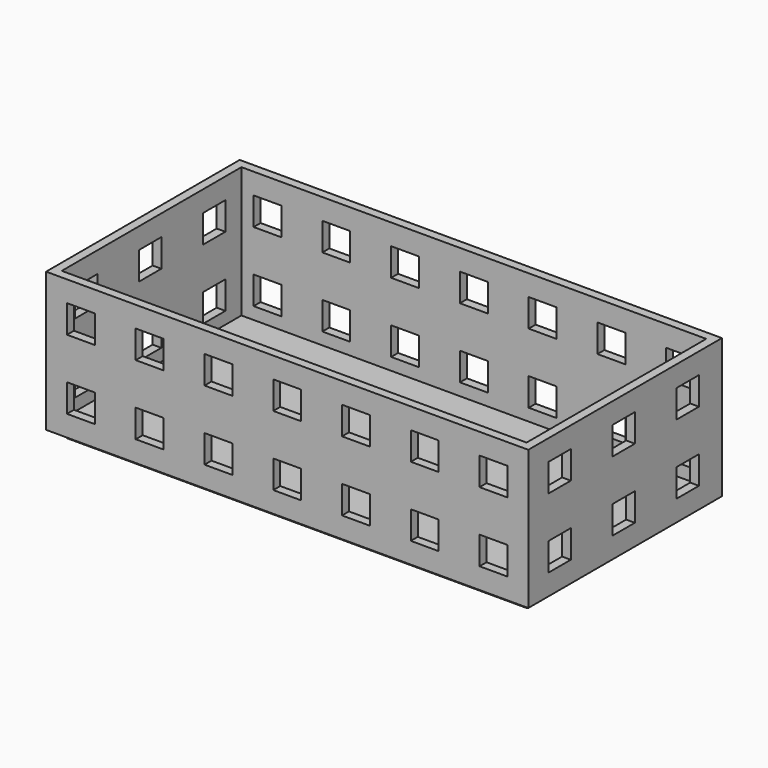
from build123d import *

# Parameters (mm, degrees)
F0_W     = 138.5
F0_H     = 69.5
F1_DEPTH = 40
F2_W     = 133.5
F2_H     = 64.5
F3_DEPTH = 37.5
F4_W     = 132
F4_H     = 62.5
F5_DEPTH = 2.5
F6_W     = 8
F6_H     = 8
F7_DEPTH = 138.5
F8_W     = 8
F8_H     = 8
F9_DEPTH = 69.5


with BuildPart() as f1:
    # F0 (on Top) → F1 (new body)
    with BuildSketch(Plane.XY):
        with Locations((69.25, 34.75)):
            Rectangle(F0_W, F0_H)
    extrude(amount=F1_DEPTH)

    # F2 (on face) → F3 (cut)
    with BuildSketch(Plane.XY.offset(40)):
        with Locations((69.25, 34.75)):
            Rectangle(F2_W, F2_H)
    extrude(amount=-F3_DEPTH, mode=Mode.SUBTRACT)

    # F4 (on face) → F5 (join)
    with BuildSketch(Plane(origin=(0, 0, 0), x_dir=(1, 0, 0), z_dir=(0, 0, -1))):
        with Locations((69.25, -34.75)):
            Rectangle(F4_W, F4_H)
    extrude(amount=F5_DEPTH)

    # F6 (on face) → F7 (cut)
    with BuildSketch(Plane.YZ.offset(138.5)):
        with Locations((11.25, 30)):
            Rectangle(F6_W, F6_H)
        with Locations((11.25, 10)):
            Rectangle(F6_W, F6_H)
        with Locations((57.25, 10)):
            Rectangle(F6_W, F6_H)
        with Locations((57.25, 30)):
            Rectangle(F6_W, F6_H)
        with Locations((34.25, 30)):
            Rectangle(F6_W, F6_H)
        with Locations((34.25, 10)):
            Rectangle(F6_W, F6_H)
    extrude(amount=-F7_DEPTH, mode=Mode.SUBTRACT)

    # F8 (on face) → F9 (cut)
    with BuildSketch(Plane.XZ):
        with Locations((10, 30)):
            Rectangle(F8_W, F8_H)
        with Locations((10, 10)):
            Rectangle(F8_W, F8_H)
        with Locations((29.75, 10)):
            Rectangle(F8_W, F8_H)
        with Locations((29.75, 30)):
            Rectangle(F8_W, F8_H)
        with Locations((49.5, 30)):
            Rectangle(F8_W, F8_H)
        with Locations((49.5, 10)):
            Rectangle(F8_W, F8_H)
        with Locations((69.25, 10)):
            Rectangle(F8_W, F8_H)
        with Locations((69.25, 30)):
            Rectangle(F8_W, F8_H)
        with Locations((89, 30)):
            Rectangle(F8_W, F8_H)
        with Locations((89, 10)):
            Rectangle(F8_W, F8_H)
        with Locations((108.75, 10)):
            Rectangle(F8_W, F8_H)
        with Locations((108.75, 30)):
            Rectangle(F8_W, F8_H)
        with Locations((128.5, 30)):
            Rectangle(F8_W, F8_H)
        with Locations((128.5, 10)):
            Rectangle(F8_W, F8_H)
    extrude(amount=-F9_DEPTH, mode=Mode.SUBTRACT)


solid = f1.part
